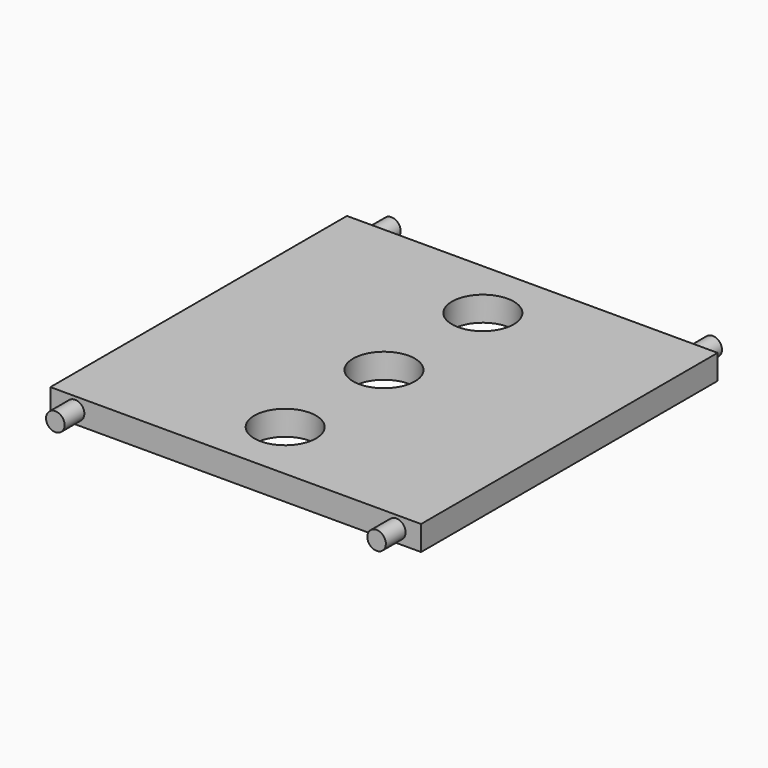
from build123d import *

# Parameters (mm, degrees)
F0_W     = 76.2
F0_H     = 76.2
F0_R     = 6.35
F1_DEPTH = 5.08
F2_R     = 1.905
F3_DEPTH = 5.08
F4_R     = 1.905
F5_DEPTH = 5.08


with BuildPart() as f1:
    # F0 (on Top) → F1 (new body)
    with BuildSketch(Plane.XY):
        Rectangle(F0_W, F0_H)
        with Locations((0, -25.4)):
            Circle(F0_R, mode=Mode.SUBTRACT)
        Circle(F0_R, mode=Mode.SUBTRACT)
        with Locations((0, 25.4)):
            Circle(F0_R, mode=Mode.SUBTRACT)
    extrude(amount=F1_DEPTH)

    # F2 (on face) → F3 (join)
    with BuildSketch(Plane.XZ.offset(38.1)):
        with Locations((-33.02, 2.54)):
            Circle(F2_R)
        with Locations((33.02, 2.54)):
            Circle(F2_R)
    extrude(amount=F3_DEPTH)

    # F4 (on face) → F5 (join)
    with BuildSketch(Plane(origin=(0, 38.1, 0), x_dir=(-1, 0, 0), z_dir=(0, 1, 0))):
        with Locations((-33.02, 2.54)):
            Circle(F4_R)
        with Locations((33.02, 2.54)):
            Circle(F4_R)
    extrude(amount=F5_DEPTH)


solid = f1.part
